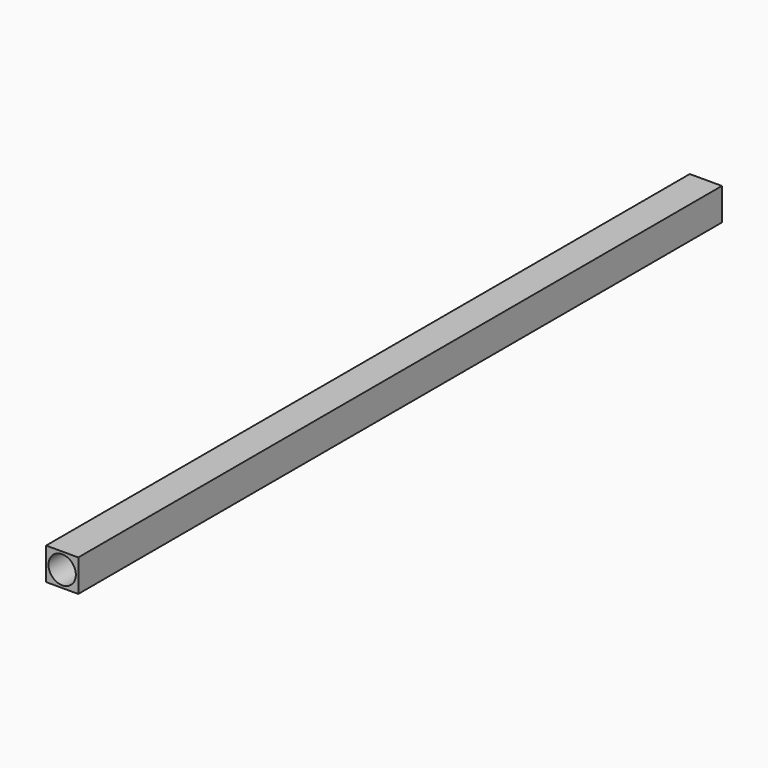
from build123d import *

# Parameters (mm, degrees)
F0_R     = 4.25
F1_DEPTH = 250


with BuildPart() as f1:
    # F0 (on Front) → F1 (new body)
    with BuildSketch(Plane.XZ):
        Polygon((-4.5, -5), (4.5, -5), (5, -5), (5, -4.5), (5, 4.5), (5, 5), (4.5, 5), (-4.5, 5), (-5, 5), (-5, 4.5), (-5, -4.5), (-5, -5), align=None)
        Circle(F0_R, mode=Mode.SUBTRACT)
    extrude(amount=F1_DEPTH)


solid = f1.part
